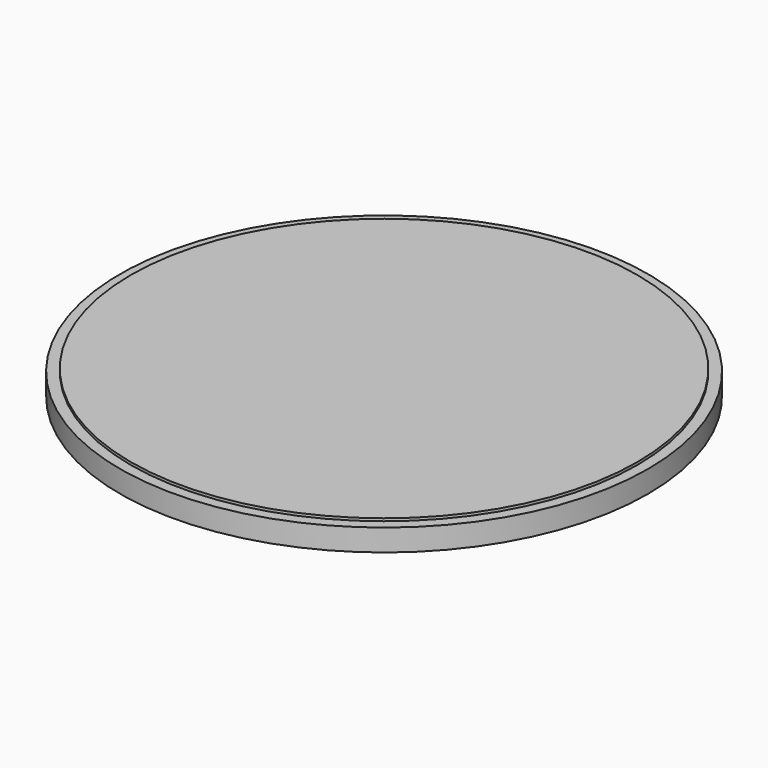
from build123d import *

# Parameters (mm, degrees)
F0_R     = 76.374325
F0_R_2   = 73.282502
F1_DEPTH = 6.35
F0_R_3   = 70.429663
F2_DEPTH = 7.112


with BuildPart() as f1:
    # F0 (on Top) → F1 (new body)
    with BuildSketch(Plane.XY):
        Circle(F0_R)
        Circle(F0_R_2, mode=Mode.SUBTRACT)
    extrude(amount=F1_DEPTH)

    # F0 (on Top) → F2 (join)
    with BuildSketch(Plane.XY):
        Circle(F0_R_2)
        Circle(F0_R_3, mode=Mode.SUBTRACT)
        Circle(F0_R_3)
    extrude(amount=F2_DEPTH)


solid = f1.part
